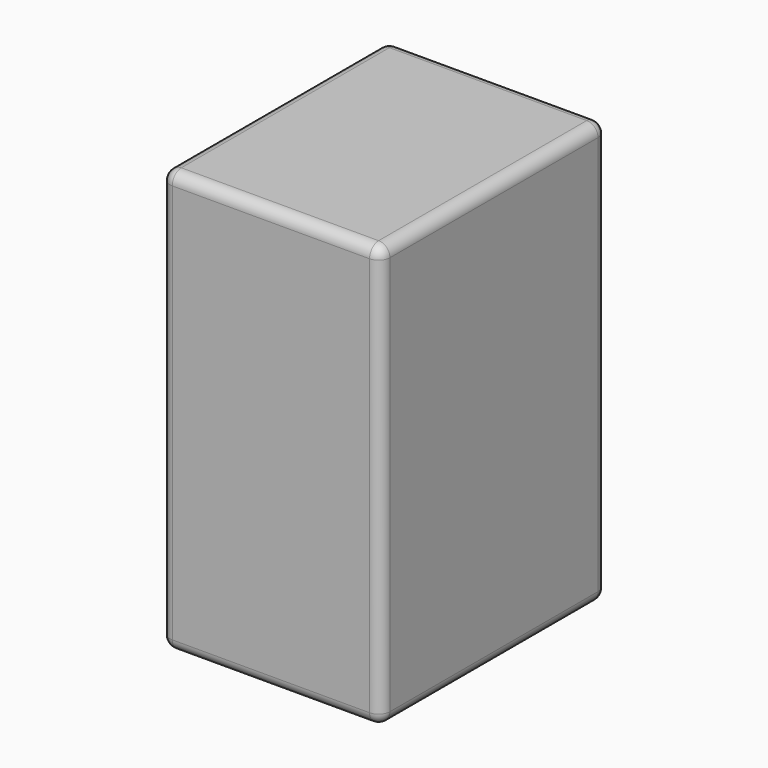
from build123d import *

# Parameters (mm, degrees)
F0_W     = 98.794114
F0_H     = 189.680554
F1_DEPTH = 127
F2_R     = 5.08
F3_R     = 5.08
F4_R     = 5.08
F5_R     = 5.08
F6_R     = 5.08


with BuildPart() as f1:
    # F0 (on Front) → F1 (new body)
    with BuildSketch(Plane.XZ):
        with Locations((-37.495473, 41.216817)):
            Rectangle(F0_W, F0_H)
    extrude(amount=F1_DEPTH)

    # F2
    f2_edges = [f1.edges().sort_by_distance(p)[0] for p in [
        (11.901584, -63.5, 136.057094),
    ]]
    fillet(f2_edges, radius=F2_R)

    # F3
    f3_edges = [f1.edges().sort_by_distance(p)[0] for p in [
        (-37.495473, 0, -53.62346),
    ]]
    fillet(f3_edges, radius=F3_R)

    # F4
    f4_edges = [f1.edges().sort_by_distance(p)[0] for p in [
        (-86.89253, 0, 43.756817),
    ]]
    fillet(f4_edges, radius=F4_R)

    # F5
    f5_edges = [f1.edges().sort_by_distance(p)[0] for p in [
        (-86.89253, -127, 43.756817),
    ]]
    fillet(f5_edges, radius=F5_R)

    # F6
    f6_edges = [f1.edges().sort_by_distance(p)[0] for p in [
        (11.901584, -63.5, -53.62346),
    ]]
    fillet(f6_edges, radius=F6_R)


solid = f1.part
